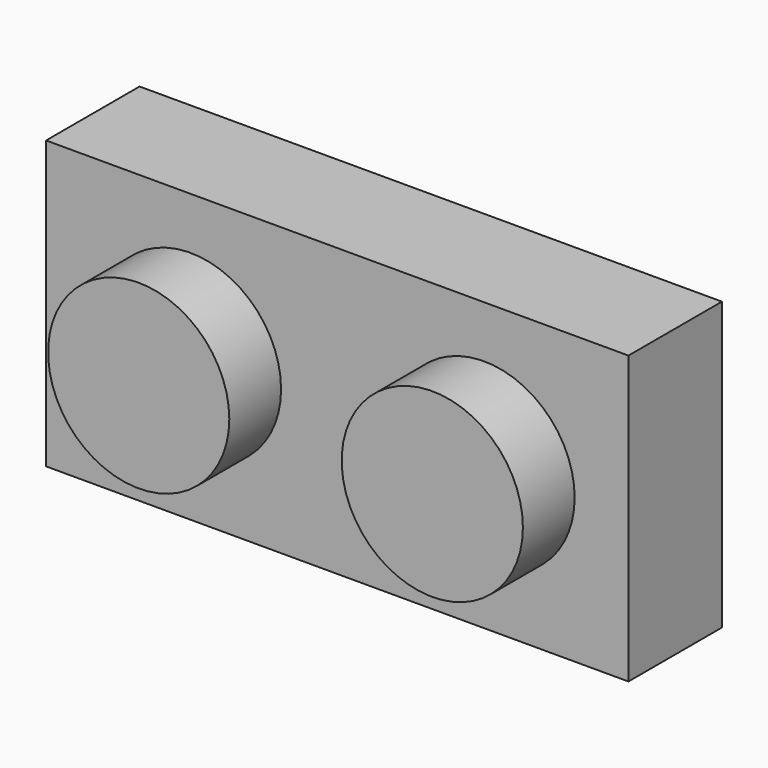
from build123d import *

# Parameters (mm, degrees)
F0_W     = 15.75
F0_H     = 7.76
F1_DEPTH = 3.16
F2_R     = 2.45
F3_DEPTH = 1.75
F4_T     = -1.55
F5_R     = 1.55
F5_R_2   = 0.695
F6_DEPTH = 1.6


with BuildPart() as f1:
    # F0 (on Front) → F1 (new body)
    with BuildSketch(Plane.XZ):
        with Locations((8.467483707, 3.5795439035)):
            Rectangle(F0_W, F0_H)
    extrude(amount=-F1_DEPTH)

    # F2 (on face) → F3 (join)
    with BuildSketch(Plane.XZ):
        with Locations((4.497483707, 3.6045439035)):
            Circle(F2_R)
        with Locations((12.437483707, 3.6045439035)):
            Circle(F2_R)
    extrude(amount=F3_DEPTH)

    # F4
    f4_openings = [f1.faces().sort_by_distance(p)[0] for p in [
        (8.467484, 3.16, 3.579544),
    ]]
    offset(amount=F4_T, openings=f4_openings, kind=Kind.INTERSECTION)

    # F5 (on face) → F6 (join)
    with BuildSketch(Plane(origin=(0, 1.55, 0), x_dir=(-1, 0, 0), z_dir=(0, 1, 0))):
        with Locations((-8.467483707, 3.5795439035)):
            Circle(F5_R)
        with Locations((-8.467483707, 3.5795439035)):
            Circle(F5_R_2, mode=Mode.SUBTRACT)
    extrude(amount=F6_DEPTH)


solid = f1.part
